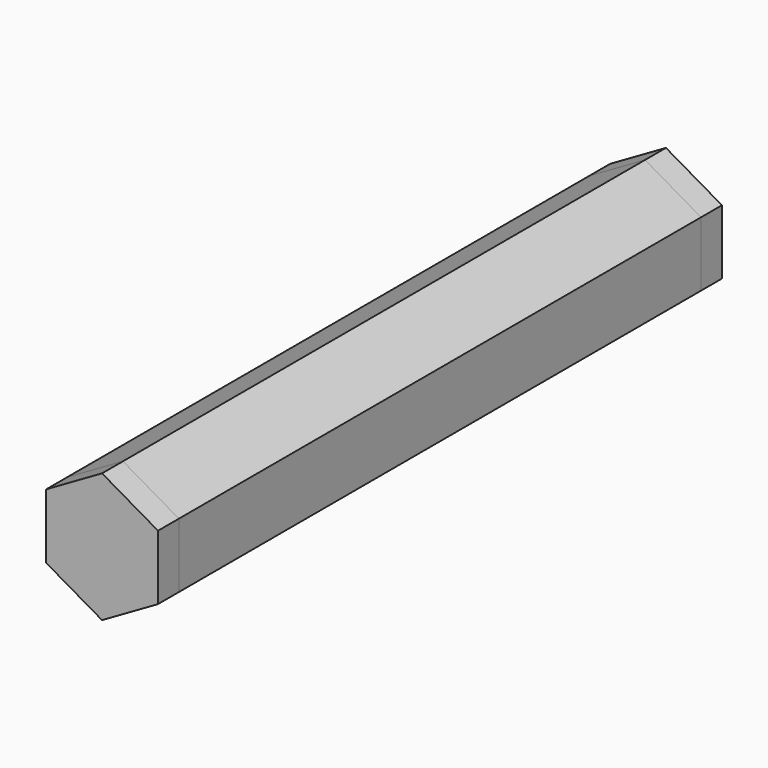
from build123d import *

# Parameters (mm, degrees)
F1_DEPTH = 500
F6_DEPTH = 20
F7_DEPTH = 20


with BuildPart() as f1:
    # F0 (on Front) → F1 (new body)
    with BuildSketch(Plane.XZ):
        Polygon((-42.8698770702, 24.7509350666), (-42.8698770702, -24.7509350666), (0, -49.5018701332), (42.8698770702, -24.7509350666), (42.8698770702, 24.7509350666), (0, 49.5018701332), align=None)
        Polygon((-42.8698770702, 24.7509350666), (-42.8698770702, -24.7509350666), (0, -49.5018701332), (42.8698770702, -24.7509350666), (42.8698770702, 24.7509350666), (0, 49.5018701332), align=None)
    extrude(amount=F1_DEPTH)


with BuildPart() as f6:
    # F6 (new): a face of the model
    f6_faces = [f1.part.faces().sort_by_distance(p)[0] for p in [
        (0, -500, 0),
    ]]
    extrude(f6_faces, amount=F6_DEPTH)


with BuildPart() as f7:
    # F7 (new): a face of the model
    f7_faces = [f1.part.faces().sort_by_distance(p)[0] for p in [
        (0, 0, 0),
    ]]
    extrude(f7_faces, amount=F7_DEPTH)


solid = Compound([f1.part, f6.part, f7.part])
